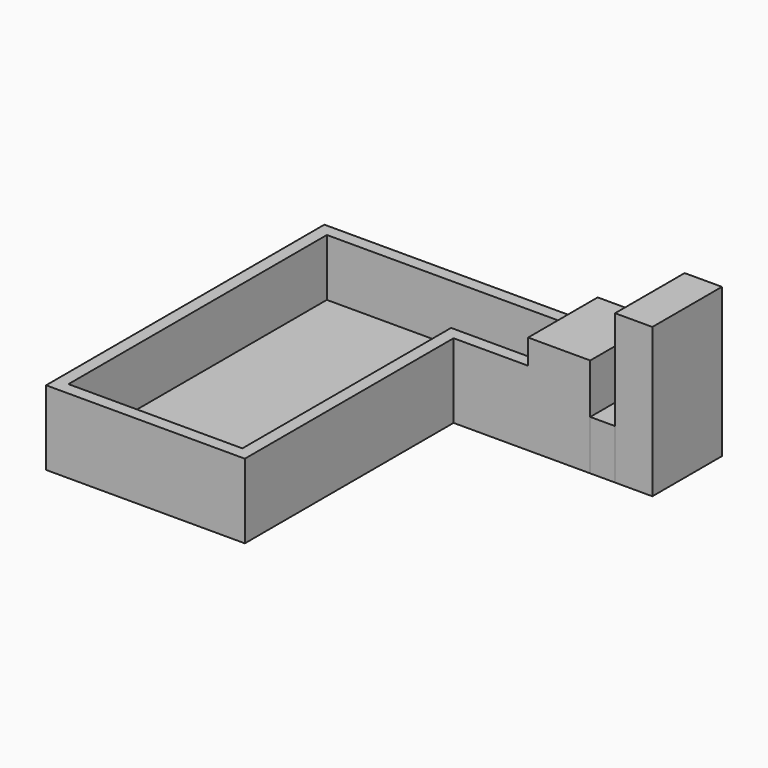
from build123d import *

# Parameters (mm, degrees)
F0_W     = 5
F0_H     = 5
F0_H_2   = 30
F0_W_2   = 70
F1_DEPTH = 30
F0_H_3   = 100
F0_H_4   = 25
F0_W_3   = 30
F2_DEPTH = 7
F3_DEPTH = 30
F0_W_4   = 25
F4_DEPTH = 40
F0_W_5   = 15
F5_DEPTH = 60
F0_W_6   = 10
F6_DEPTH = 20


with BuildPart() as f1:
    # F0 (on Top) → F1 (new body)
    with BuildSketch(Plane.XY):
        with Locations((-72.5873509794, 60.7595711946)):
            Rectangle(F0_W, F0_H)
        with Locations((-72.5873509794, 43.2595711946)):
            Rectangle(F0_W, F0_H_2)
        Polygon((-70.0873509794, 28.2595711946), (-75.0873509794, 28.2595711946), (-75.0873509794, -76.7404288054), (4.9126490206, -76.7404288054), (4.9126490206, 28.2595711946), (-0.0873509794, 28.2595711946), (-0.0873509794, -71.7404288054), (-70.0873509794, -71.7404288054), align=None)
        with Locations((-35.0873509794, 60.7595711946)):
            Rectangle(F0_W_2, F0_H)
        with Locations((2.4126490206, 30.7595711946)):
            Rectangle(F0_W, F0_H)
        with Locations((2.4126490206, 60.7595711946)):
            Rectangle(F0_W, F0_H)
    extrude(amount=F1_DEPTH)

    # F0 (on Top) → F2 (join)
    with BuildSketch(Plane.XY):
        Polygon((-0.0873509794, 58.2595711946), (-70.0873509794, 58.2595711946), (-70.0873509794, 28.2595711946), (-0.0873509794, 28.2595711946), (-0.0873509794, 33.2595711946), align=None)
        with Locations((-35.0873509794, -21.7404288054)):
            Rectangle(F0_W_2, F0_H_3)
        with Locations((2.4126490206, 45.7595711946)):
            Rectangle(F0_W, F0_H_4)
        with Locations((19.9126490206, 45.7595711946)):
            Rectangle(F0_W_3, F0_H_4)
    extrude(amount=F2_DEPTH)

    # F0 (on Top) → F3 (join)
    with BuildSketch(Plane.XY):
        with Locations((19.9126490206, 60.7595711946)):
            Rectangle(F0_W_3, F0_H)
        with Locations((19.9126490206, 30.7595711946)):
            Rectangle(F0_W_3, F0_H)
    extrude(amount=F3_DEPTH)

    # F0 (on Top) → F4 (join)
    with BuildSketch(Plane.XY):
        with Locations((47.4126490206, 60.7595711946)):
            Rectangle(F0_W_4, F0_H)
        with Locations((47.4126490206, 45.7595711946)):
            Rectangle(F0_W_4, F0_H_4)
        with Locations((47.4126490206, 30.7595711946)):
            Rectangle(F0_W_4, F0_H)
    extrude(amount=F4_DEPTH)


with BuildPart() as f5:
    # F0 (on Top) → F5 (new body)
    with BuildSketch(Plane.XY):
        with Locations((77.4126490206, 60.7595711946)):
            Rectangle(F0_W_5, F0_H)
        with Locations((77.4126490206, 45.7595711946)):
            Rectangle(F0_W_5, F0_H_4)
        with Locations((77.4126490206, 30.7595711946)):
            Rectangle(F0_W_5, F0_H)
    extrude(amount=F5_DEPTH)


with BuildPart() as f6:
    # F0 (on Top) → F6 (new body)
    with BuildSketch(Plane.XY):
        with Locations((64.9126490206, 60.7595711946)):
            Rectangle(F0_W_6, F0_H)
        with Locations((64.9126490206, 45.7595711946)):
            Rectangle(F0_W_6, F0_H_4)
        with Locations((64.9126490206, 30.7595711946)):
            Rectangle(F0_W_6, F0_H)
    extrude(amount=F6_DEPTH)


solid = Compound([f1.part, f5.part, f6.part])
